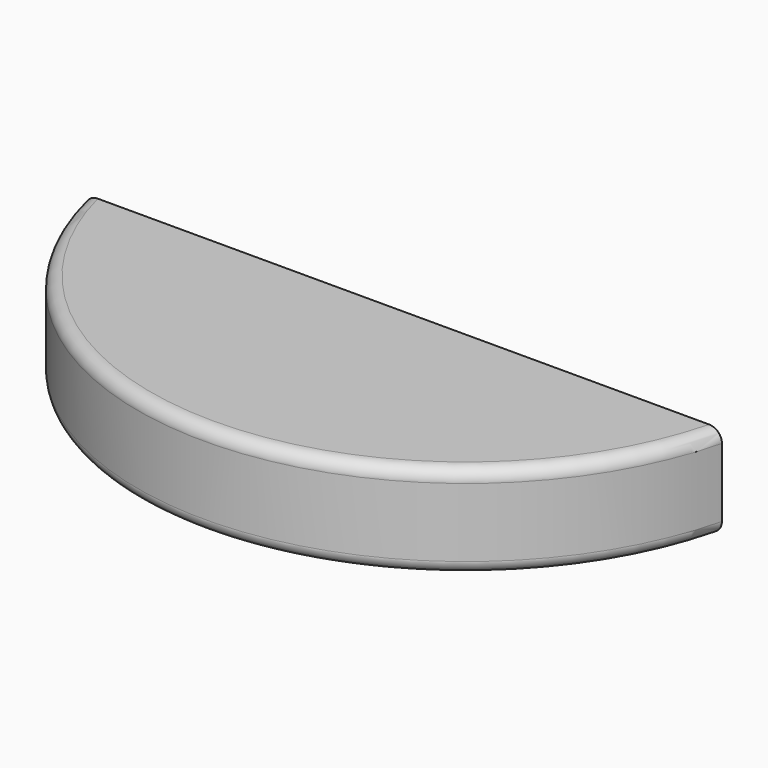
from build123d import *

# Parameters (mm, degrees)
F1_DEPTH = 19.05
F2_R     = 2.54


with BuildPart() as f1:
    # F0 (on Top) → F1 (new body)
    with BuildSketch(Plane.XY):
        with BuildLine():
            Line((80.993023, 0), (-48.546977, 0))
            ThreePointArc((-48.546977, 0), (16.223023, -50.8), (80.993023, 0))
        make_face()
    extrude(amount=F1_DEPTH)

    # F2
    f2_edges = [f1.edges().sort_by_distance(p)[0] for p in [
        (16.223023, -50.8, 19.05),
        (16.223023, -50.8, 0),
    ]]
    fillet(f2_edges, radius=F2_R)


solid = f1.part
